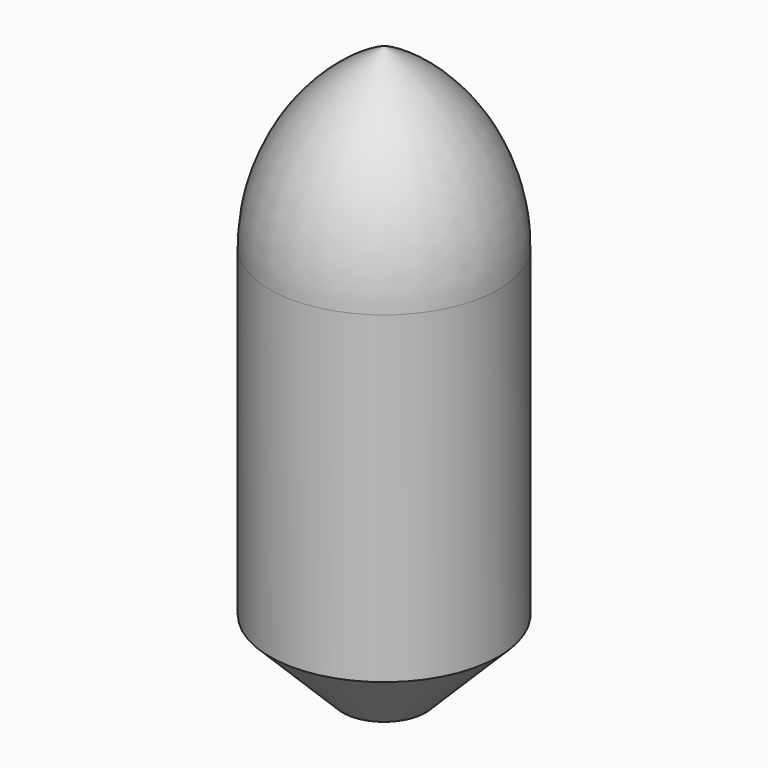
from build123d import *

# Parameters (mm, degrees)
F2_W          = 801.615357399
F2_H          = 125.4702582955
F3_DEPTH      = 203.2010001
F3_DEPTH_BACK = 203.2010001


with BuildPart() as f1:
    # F0 (on Front) → F1 (revolve)
    with BuildSketch(Plane.XZ):
        with BuildLine():
            Line((0, 25.4), (0, 0))
            Line((0, 0), (203.2, 203.2))
            Line((203.2, 203.2), (203.2, 777.7331829187))
            ThreePointArc((203.2, 777.7331829187), (147.9798865389, 964.9360268108), (0, 1092.2))
            Line((0, 1092.2), (0, 1066.8))
            ThreePointArc((0, 1066.8), (120.5317242979, 964.4569517236), (177.8, 817.0719433583))
            Line((177.8, 817.0719433583), (177.8, 203.2))
            Line((177.8, 203.2), (0, 25.4))
        make_face()
    revolve(axis=Axis((0, 0, 12.7), (0, 0, -1)))

    # F2 (on Front) → F3 (cut, two sides)
    with BuildSketch(Plane.XZ) as f3_sk:
        with Locations((-47.6322174072, 10.7661373913)):
            Rectangle(F2_W, F2_H)
    extrude(amount=-F3_DEPTH, mode=Mode.SUBTRACT)
    extrude(f3_sk.sketch, amount=F3_DEPTH_BACK, mode=Mode.SUBTRACT)


solid = f1.part
